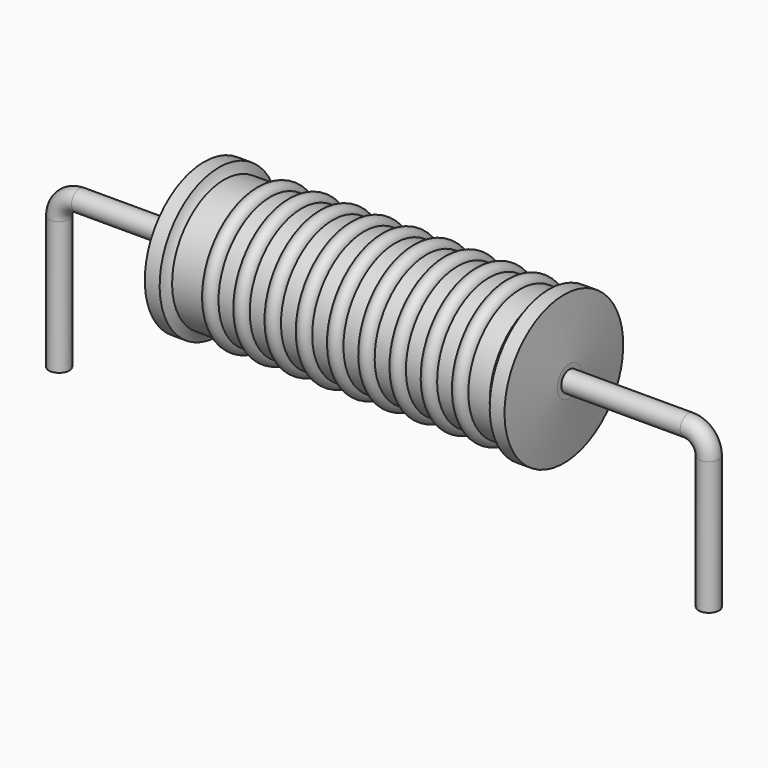
from build123d import *

# Parameters (mm, degrees)
SKETCH_R = 0.4


with BuildPart() as sweep_body:
    # Sweep: sweep along a path in Sketch001
    with BuildLine(Plane.XZ) as sweep_path:
        Line((0, -3), (0, 2.2))
        ThreePointArc((0, 2.2), (0.234311, 2.765682), (0.799991, 3))
        Line((0.799991, 3), (24.6, 3))
        ThreePointArc((24.6, 3), (25.165685, 2.765685), (25.4, 2.2))
        Line((25.4, 2.2), (25.4, -3))
    # Sketch → Sweep (sweep)
    with BuildSketch(Plane.XY.offset(-2)):
        Circle(SKETCH_R)
    sweep(path=sweep_path.line)


with BuildPart() as revolution:
    # Sketch002 → Revolution (revolve)
    with BuildSketch(Plane.XZ):
        with BuildLine():
            Line((5.6675, 5.9), (6.2475, 5.9))
            ThreePointArc((6.2475, 5.9), (6.326801, 5.70799), (6.4455, 5.5375))
            Line((6.4455, 5.5375), (18.8625, 5.5375))
            ThreePointArc((18.8625, 5.5375), (19.02618, 5.703806), (19.1525, 5.9))
            Line((19.1525, 5.9), (19.7325, 5.9))
            ThreePointArc((19.95, 3.6), (19.843254, 4.750189), (19.7325, 5.9))
            Line((19.95, 3), (19.95, 3.6))
            Line((5.45, 3), (19.95, 3))
            Line((5.45, 3), (5.45, 3.6))
            ThreePointArc((5.6675, 5.9), (5.556746, 4.750189), (5.45, 3.6))
        make_face()
    revolve(axis=Axis((5.45, 0, 3), (1, 0, 0)))


with BuildPart() as obj1:
    # Sketch003 → Revolution001 (revolve)
    with BuildSketch(Plane.XZ):
        with BuildLine():
            ThreePointArc((8.266053, 5.4795), (7.960789, 5.784763), (7.655526, 5.4795))
            Line((7.045, 5.4795), (7.655526, 5.4795))
            Line((7.045, 5.4795), (7.045, 4.8995))
            Line((7.045, 4.8995), (18.645, 4.8995))
            Line((18.645, 4.8995), (18.645, 5.4795))
            Line((18.034474, 5.4795), (18.645, 5.4795))
            ThreePointArc((18.034474, 5.4795), (17.729211, 5.784763), (17.423947, 5.4795))
            Line((16.813421, 5.4795), (17.423947, 5.4795))
            ThreePointArc((16.813421, 5.4795), (16.508158, 5.784763), (16.202895, 5.4795))
            Line((15.592368, 5.4795), (16.202895, 5.4795))
            ThreePointArc((15.592368, 5.4795), (15.287105, 5.784763), (14.981842, 5.4795))
            Line((14.371316, 5.4795), (14.981842, 5.4795))
            ThreePointArc((14.371316, 5.4795), (14.066053, 5.784763), (13.760789, 5.4795))
            Line((13.150263, 5.4795), (13.760789, 5.4795))
            ThreePointArc((13.150263, 5.4795), (12.845, 5.784763), (12.539737, 5.4795))
            Line((11.929211, 5.4795), (12.539737, 5.4795))
            ThreePointArc((11.929211, 5.4795), (11.623947, 5.784763), (11.318684, 5.4795))
            Line((10.708158, 5.4795), (11.318684, 5.4795))
            ThreePointArc((10.708158, 5.4795), (10.402895, 5.784763), (10.097632, 5.4795))
            Line((9.487105, 5.4795), (10.097632, 5.4795))
            ThreePointArc((9.487105, 5.4795), (9.181842, 5.784763), (8.876579, 5.4795))
            Line((8.266053, 5.4795), (8.876579, 5.4795))
        make_face()
    revolve(axis=Axis((5.8125, 0, 3), (1, 0, 0)))

    # obj1: union Sweep body, Revolution
    add(sweep_body.part)
    add(revolution.part)


solid = obj1.part
